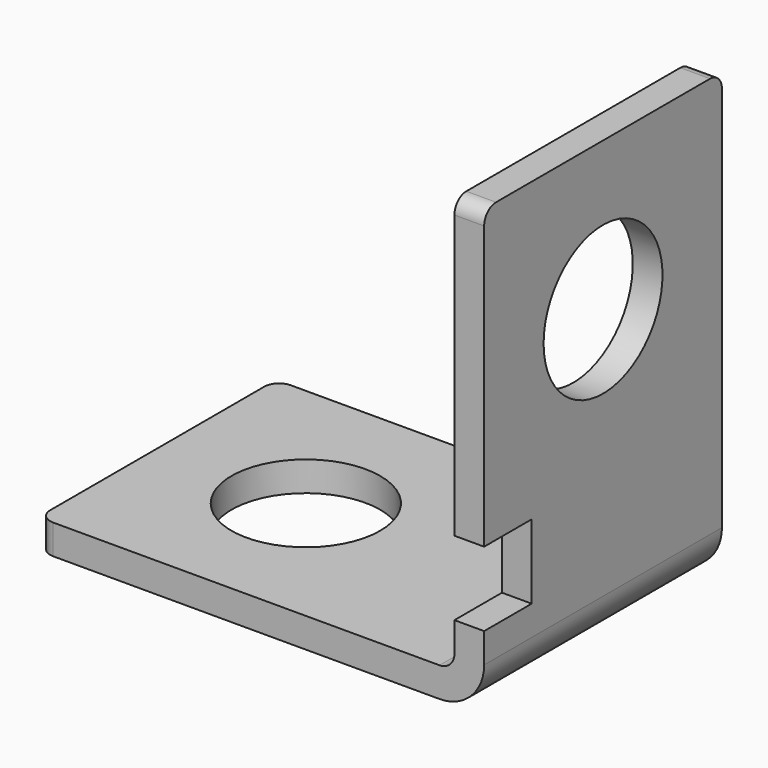
from build123d import *

# Parameters (mm, degrees)
F1_DEPTH = 20
F2_R     = 1
F3_R     = 5
F3_W     = 4
F3_H     = 5
F4_DEPTH = 2.001
F5_R     = 5
F6_DEPTH = 2.001


with BuildPart() as f1:
    # F0 (on Front) → F1 (new body)
    with BuildSketch(Plane.XZ):
        with BuildLine():
            Line((0, 2), (0, 0))
            Line((0, 0), (27, 0))
            ThreePointArc((27, 0), (29.12132, 0.87868), (30, 3))
            Line((30, 3), (30, 30))
            Line((30, 30), (28, 30))
            Line((28, 30), (28, 3))
            ThreePointArc((28, 3), (27.707107, 2.292893), (27, 2))
            Line((27, 2), (0, 2))
        make_face()
    extrude(amount=F1_DEPTH)

    # F2
    f2_edges = [f1.edges().sort_by_distance(p)[0] for p in [
        (29, 0, 30),
        (29, -20, 30),
        (0, -20, 1),
        (0, 0, 1),
    ]]
    fillet(f2_edges, radius=F2_R)

    # F3 (on face) → F4 (cut, through all)
    with BuildSketch(Plane(origin=(28, 0, 0), x_dir=(0, -1, 0), z_dir=(-1, 0, 0))):
        with Locations((10, 20)):
            Circle(F3_R)
        with Locations((18, 7.5)):
            Rectangle(F3_W, F3_H)
    extrude(amount=-F4_DEPTH, mode=Mode.SUBTRACT)

    # F5 (on face) → F6 (cut, through all)
    with BuildSketch(Plane.XY.offset(2)):
        with Locations((10, -10)):
            Circle(F5_R)
    extrude(amount=-F6_DEPTH, mode=Mode.SUBTRACT)


solid = f1.part
